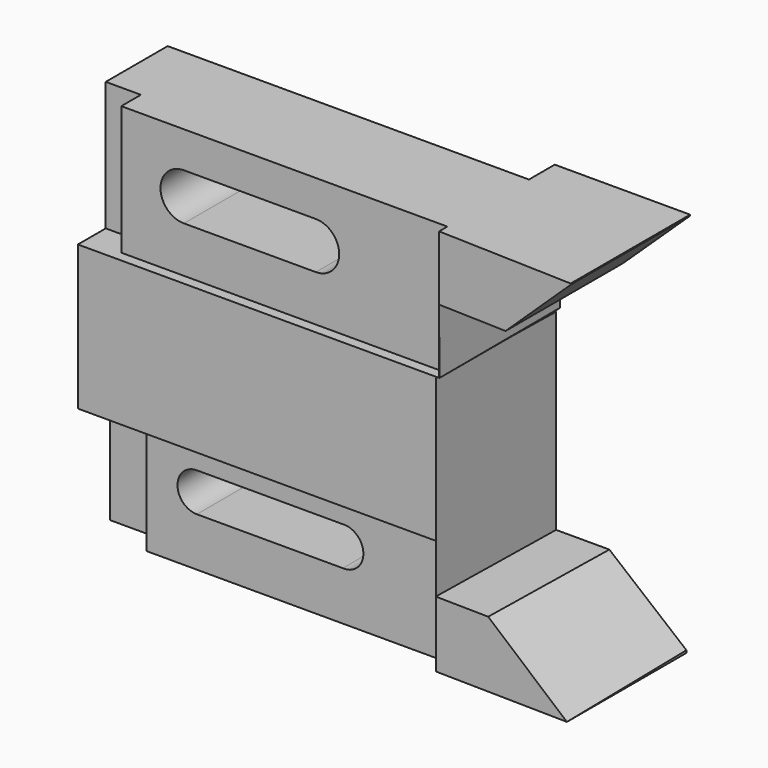
from build123d import *

# Parameters (mm, degrees)
F0_W      = 71.12
F0_H      = 28.448
F1_DEPTH  = 28.448
F3_DEPTH  = 25.4
F4_DEPTH  = 25.4
F6_DEPTH  = 29.3733245078
F8_DEPTH  = 29.3562148671
F9_W      = 26.5992027439
F9_H      = 25.4
F10_DEPTH = 29.3562148671
F12_DEPTH = 50.8
F14_DEPTH = 25.3715035059
F16_DEPTH = 29.4182237139
F18_DEPTH = 29.4182237139


with BuildPart() as f1:
    # F0 (on Front) → F1 (new body)
    with BuildSketch(Plane.XZ):
        with Locations((4.2755420916, -14.224)):
            Rectangle(F0_W, F0_H)
    extrude(amount=F1_DEPTH)

    # F2 (on face) → F3 (join)
    with BuildSketch(Plane.XY):
        Polygon((39.8355420916, -6.35), (-31.2844579084, -6.35), (-31.2844579084, -21.59), (-24.3643354625, -21.59), (-24.3643354625, -26.416), (39.8355420916, -26.416), align=None)
        Polygon((39.8355420916, 0), (39.8355420916, -6.35), (39.8355420916, -26.416), (39.8355420916, -28.448), (66.4746039532, -29.3723245078), (66.4906352758, 0), align=None)
    extrude(amount=-F3_DEPTH)

    # F2 (on face) → F4 (join)
    with BuildSketch(Plane.XY):
        Polygon((39.8355420916, -6.35), (-31.2844579084, -6.35), (-31.2844579084, -21.59), (-24.3643354625, -21.59), (-24.3643354625, -26.416), (39.8355420916, -26.416), (39.8355420916, -28.448), (66.4746039532, -29.3723245078), (66.4906352758, 0), (39.8355420916, 0), align=None)
    extrude(amount=F4_DEPTH)

    # F5 (on Front) → F6 (cut, through all)
    with BuildSketch(Plane.XZ):
        with BuildLine():
            Line((13.9288037957, 18.2963101068), (-12.0401520726, 18.2963101068))
            ThreePointArc((-12.0401520726, 18.2963101068), (-16.6437398491, 13.6927223303), (-12.0401520726, 9.0891345539))
            Line((-12.0401520726, 9.0891345539), (13.9288037957, 9.0891345539))
            ThreePointArc((13.9288037957, 9.0891345539), (18.5323915722, 13.6927223303), (13.9288037957, 18.2963101068))
        make_face()
        Polygon((69.9178975219, 28.448), (39.8913989174, 0), (69.9178975219, 0), align=None)
    extrude(amount=F6_DEPTH, mode=Mode.SUBTRACT)

    # F7 (on face) → F8 (cut, through all)
    with BuildSketch(Plane(origin=(-0.9380015967, -27.0332360006, 0), x_dir=(0.9993985644, -0.0346772191, 0), z_dir=(-0.0346772191, -0.9993985644, 0))):
        Polygon((54.266725333, 12.7), (40.7980811078, 12.7), (40.8539715481, 0), align=None)
    extrude(amount=-F8_DEPTH, mode=Mode.SUBTRACT)

    # F9 (on face) → F10 (cut, through all)
    with BuildSketch(Plane(origin=(-0.9380015967, -27.0332360006, 0), x_dir=(0.9993985644, -0.0346772191, 0), z_dir=(-0.0346772191, -0.9993985644, 0))):
        with Locations((54.15357292, -12.7)):
            Rectangle(F9_W, F9_H)
    extrude(amount=-F10_DEPTH, mode=Mode.SUBTRACT)

    # F11 (on Top) → F12 (join)
    with BuildSketch(Plane.XY):
        Polygon((39.5289533985, -6.35), (-31.5910466015, -6.35), (-31.0273190044, -20.828), (-20.2347878367, -20.828), (-20.2347878367, -25.3705035059), (33.4493406117, -25.3705035059), (39.5289533985, -25.3705035059), (39.5289533985, -28.8873665619), (65.7633790028, -29.4085801184), (65.7633790028, 0), (39.5289533985, 0), align=None)
    extrude(amount=-F12_DEPTH)

    # F13 (on face) → F14 (cut, through all)
    with BuildSketch(Plane.XZ.offset(25.3705035059)):
        with BuildLine():
            Line((18.4132819485, -33.5730523437), (-10.3250071326, -33.5730523437))
            ThreePointArc((-10.3250071326, -33.5730523437), (-14.1350071326, -37.3830523437), (-10.3250071326, -41.1930523437))
            Line((-10.3250071326, -41.1930523437), (18.4132819485, -41.1930523437))
            ThreePointArc((18.4132819485, -41.1930523437), (22.4639207193, -37.3830523437), (18.4132819485, -33.5730523437))
        make_face()
    extrude(amount=-F14_DEPTH, mode=Mode.SUBTRACT)

    # F15 (on face) → F16 (cut, through all)
    with BuildSketch(Plane(origin=(-0.5580978428, -28.0909353817, 0), x_dir=(0.9998026988, -0.0198636223, 0), z_dir=(-0.0198636223, -0.9998026988, 0))):
        Polygon((66.3345647354, 0), (40.0949620257, 0), (40.0949620257, -29.1759762913), (66.3345647354, -50.8), align=None)
    extrude(amount=-F16_DEPTH, mode=Mode.SUBTRACT)

    # F17 (on face) → F18 (cut, through all)
    with BuildSketch(Plane(origin=(-0.5580978428, -28.0909353817, 0), x_dir=(0.9998026988, -0.0198636223, 0), z_dir=(-0.0198636223, -0.9998026988, 0))):
        Polygon((50.5786476823, -37.8155685024), (40.0949620257, -29.1759762913), (40.0949620257, -37.8155685024), align=None)
    extrude(amount=-F18_DEPTH, mode=Mode.SUBTRACT)


solid = f1.part
